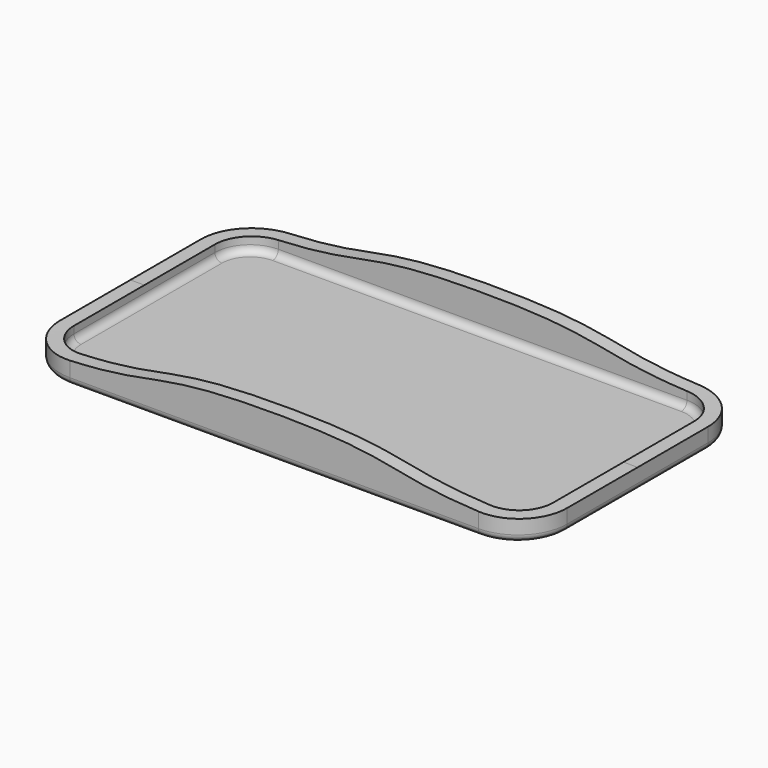
from build123d import *

# Parameters (mm, degrees)
F1_DEPTH = 2
F2_DEPTH = 12
F4_DEPTH = 49.5
F5_R     = 2


with BuildPart() as f1:
    # F0 (on Top) → F1 (new body)
    with BuildSketch(Plane.XY):
        with BuildLine():
            ThreePointArc((-68, -25), (-65.071068, -32.071068), (-58, -35))
            Line((-58, -35), (58, -35))
            ThreePointArc((58, -35), (65.071068, -32.071068), (68, -25))
            Line((68, -25), (68, 25))
            ThreePointArc((68, 25), (65.071068, 32.071068), (58, 35))
            Line((58, 35), (-58, 35))
            ThreePointArc((-58, 35), (-65.071068, 32.071068), (-68, 25))
            Line((-68, 25), (-68, -25))
        make_face()
    extrude(amount=F1_DEPTH)

    # F0 (on Top) → F2 (join)
    with BuildSketch(Plane.XY):
        with BuildLine():
            Line((58, 39), (-58, 39))
            ThreePointArc((-58, 39), (-67.899495, 34.899495), (-72, 25))
            Line((-72, 25), (-72, -25))
            ThreePointArc((-72, -25), (-67.899495, -34.899495), (-58, -39))
            Line((-58, -39), (58, -39))
            ThreePointArc((58, -39), (67.899495, -34.899495), (72, -25))
            Line((72, -25), (72, 25))
            ThreePointArc((72, 25), (67.899495, 34.899495), (58, 39))
        make_face()
        with BuildLine():
            Line((58, -35), (-58, -35))
            ThreePointArc((-58, -35), (-65.071068, -32.071068), (-68, -25))
            Line((-68, -25), (-68, 25))
            ThreePointArc((-68, 25), (-65.071068, 32.071068), (-58, 35))
            Line((-58, 35), (58, 35))
            ThreePointArc((58, 35), (65.071068, 32.071068), (68, 25))
            Line((68, 25), (68, -25))
            ThreePointArc((68, -25), (65.071068, -32.071068), (58, -35))
        make_face(mode=Mode.SUBTRACT)
    extrude(amount=F2_DEPTH)

    # F3 (on Front) → F4 (intersect, symmetric)
    with BuildSketch(Plane.XZ):
        with BuildLine():
            Line((-72, 6), (-72, 0))
            Line((-72, 0), (72, 0))
            Line((72, 0), (72, 6))
            add(Edge.make_bspline(
                [(72, 6), (30.504536, 6), (40.234391, 12), (0, 12)],
                knots=[0, 0, 0, 0, 72.249567, 72.249567, 72.249567, 72.249567], degree=3))
            add(Edge.make_bspline(
                [(-72, 6), (-30.504536, 6), (-40.234391, 12), (0, 12)],
                knots=[0, 0, 0, 0, 72.249567, 72.249567, 72.249567, 72.249567], degree=3))
        make_face()
    extrude(amount=F4_DEPTH, both=True, mode=Mode.INTERSECT)

    # F5
    f5_edges = [f1.edges().sort_by_distance(p)[0] for p in [
        (-65.071068, -32.071068, 2),
        (65.071068, -32.071068, 2),
        (-67.899495, -34.899495, 0),
    ]]
    fillet(f5_edges, radius=F5_R)


solid = f1.part
